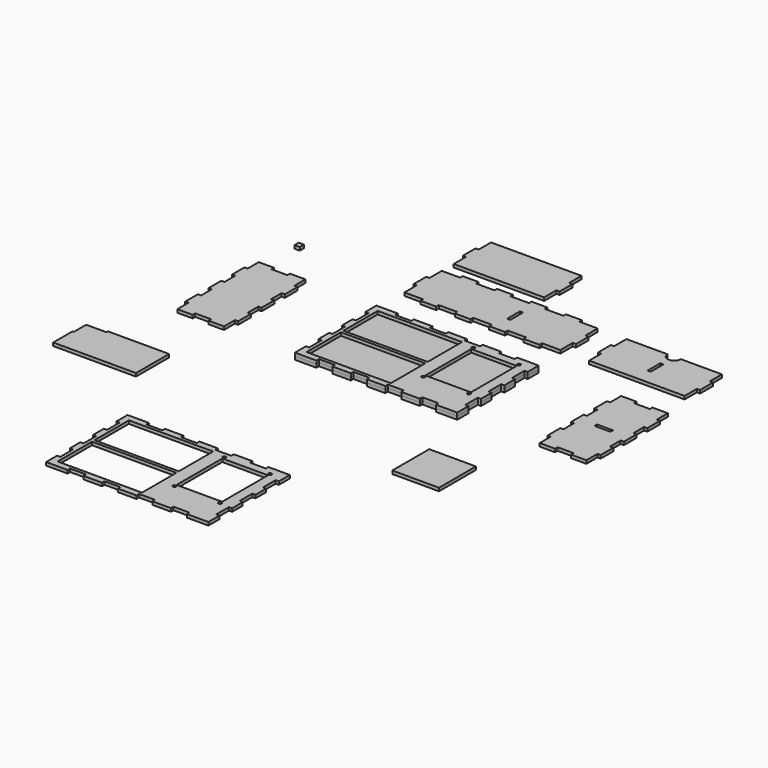
from build123d import *

# Parameters (mm, degrees)
F0_W     = 159
F0_H     = 81
F0_R     = 3
F0_W_2   = 86
F0_H_2   = 108
F1_DEPTH = 6
F0_W_3   = 6
F0_H_3   = 30
F0_W_4   = 30
F0_H_4   = 6
F0_W_5   = 10
F0_H_5   = 10
F0_W_6   = 88
F0_H_6   = 87
F3_DEPTH = 6
F0_W_7   = 155
F0_H_7   = 77
F5_DEPTH = 6


with BuildPart() as f1:
    # F0 (on Top) → F1 (new body)
    with BuildSketch(Plane.XY):
        Polygon((-86.2738461022, 84.8959320457), (-126.7738461022, 84.8959320457), (-126.7738461022, 58.8614838584), (-120.7738461022, 58.8614838584), (-120.7738461022, 28.930380233), (-126.7738461022, 28.930380233), (-126.7738461022, 20.930380233), (-126.7738461022, 19.8959320457), (-126.7738461022, 3.8959320457), (-120.7738461022, 3.8959320457), (-120.7738461022, -26.1040679543), (-126.7738461022, -26.1040679543), (-126.7738461022, -43.1385161416), (-126.7738461022, -51.1040679543), (-120.7738461022, -51.1040679543), (-120.7738461022, -81.1040679543), (-126.7738461022, -81.1040679543), (-126.7738461022, -107.1040679543), (-86.2738461022, -107.1040679543), (-86.2738461022, -101.1040679543), (-56.2738461022, -101.1040679543), (-56.2738461022, -107.1040679543), (-21.2738461021, -107.1040679543), (-21.2738461021, -101.1040679543), (8.7261538978, -101.1040679543), (8.7261538978, -107.1040679543), (43.7261538979, -107.1040679543), (43.7261538979, -101.1040679543), (73.7261538978, -101.1040679543), (73.7261538978, -107.1040679543), (108.7261538979, -107.1040679543), (108.7261538979, -101.1040679543), (138.7261538978, -101.1040679543), (138.7261538978, -107.1040679543), (144.4517241379, -107.1040679543), (179.2261538978, -107.1040679543), (179.2261538978, -81.069619767), (173.2261538978, -81.069619767), (173.2261538978, -51.1385161416), (179.2261538978, -51.1385161416), (179.2261538978, -43.1385161416), (179.2261538978, -26.1040679543), (173.2261538978, -26.1040679543), (173.2261538978, 3.8959320457), (179.2261538978, 3.8959320457), (179.2261538978, 28.8959320457), (173.2261538978, 28.8959320457), (173.2261538978, 58.8959320457), (179.2261538978, 58.8959320457), (179.2261538978, 84.8959320457), (169.8029463664, 84.8959320457), (138.5005836578, 84.8959320457), (138.5005836578, 78.8959320457), (108.5005836578, 78.8959320457), (108.5005836578, 84.8959320457), (104.8781364464, 84.8959320457), (73.5757737378, 84.8959320457), (73.5757737378, 78.8959320457), (43.5757737378, 78.8959320457), (43.5757737378, 84.8959320457), (39.9533265265, 84.8959320457), (8.6509638178, 84.8959320457), (8.6509638178, 78.8959320457), (-21.3490361822, 78.8959320457), (-21.3490361822, 84.8959320457), (-24.9714833935, 84.8959320457), (-56.2738461022, 84.8959320457), (-56.2738461022, 78.8959320457), (-86.2738461022, 78.8959320457), align=None)
        with Locations((-35.0482758621, -54.6040679543)):
            Rectangle(F0_W, F0_H, mode=Mode.SUBTRACT)
        with Locations((-35.2738461022, 32.3959320457)):
            Rectangle(F0_W, F0_H, mode=Mode.SUBTRACT)
        with Locations((68.7261538978, -49.1040679543)):
            Circle(F0_R, mode=Mode.SUBTRACT)
        with Locations((154.7261538978, -49.1040679543)):
            Circle(F0_R, mode=Mode.SUBTRACT)
        with Locations((68.7261538978, 68.8959320457)):
            Circle(F0_R, mode=Mode.SUBTRACT)
        with Locations((111.7261538978, 9.8959320457)):
            Rectangle(F0_W_2, F0_H_2, mode=Mode.SUBTRACT)
        with Locations((154.7261538978, 68.8959320457)):
            Circle(F0_R, mode=Mode.SUBTRACT)
    extrude(amount=F1_DEPTH)


with BuildPart() as f1b:
    # F0 (on Top) → F1, piece 2 (new body)
    with BuildSketch(Plane.XY):
        Polygon((-260.5471904278, 58.8614838584), (-260.5471904278, 84.8959320457), (-289.5471904278, 84.8959320457), (-289.5471904278, 78.8959320457), (-319.5471904278, 78.8959320457), (-319.5471904278, 84.8959320457), (-348.5471904278, 84.8959320457), (-348.5471904278, 58.8959320457), (-354.5471904278, 58.8959320457), (-354.5471904278, 28.8959320457), (-348.5471904278, 28.8959320457), (-348.5471904278, 3.9131561393), (-354.5471904278, 3.9131561393), (-354.5471904278, -26.0868438607), (-348.5471904278, -26.0868438607), (-348.5471904278, -51.069619767), (-354.5471904278, -51.069619767), (-354.5471904278, -81.069619767), (-348.5471904278, -81.069619767), (-348.5471904278, -107.1040679543), (-319.5471904278, -107.1040679543), (-319.5471904278, -101.1040679543), (-289.5471904278, -101.1040679543), (-289.5471904278, -107.1040679543), (-260.5471904278, -107.1040679543), (-260.5471904278, -81.1040679543), (-254.5471904278, -81.1040679543), (-254.5471904278, -51.1040679543), (-260.5471904278, -51.1040679543), (-260.5471904278, -26.121292048), (-254.5471904278, -26.121292048), (-254.5471904278, 3.878707952), (-260.5471904278, 3.878707952), (-260.5471904278, 28.8614838584), (-254.5471904278, 28.8614838584), (-254.5471904278, 58.8614838584), align=None)
    extrude(amount=F1_DEPTH)


with BuildPart() as f1c:
    # F0 (on Top) → F1, piece 3 (new body)
    with BuildSketch(Plane.XY):
        Polygon((-86.0482758621, 143.4788551768), (-86.0482758621, 137.4788551768), (-61.6482758621, 137.4788551768), (-61.5482758621, 137.4788551768), (-56.0482758621, 137.4788551768), (-56.0482758621, 143.4788551768), (-21.1234659421, 143.4788551768), (-21.1234659421, 137.4788551768), (4.9337449743, 137.4788551768), (8.8765340579, 137.4788551768), (8.8765340579, 143.4788551768), (43.8013439779, 143.4788551768), (43.8013439779, 137.4788551768), (73.8013439779, 137.4788551768), (73.8013439779, 143.4788551768), (108.7261538978, 143.4788551768), (108.7261538978, 137.4788551768), (138.7261538978, 137.4788551768), (138.7261538978, 143.4788551768), (173.2261538978, 143.4788551768), (173.2261538978, 172.4788551768), (173.2261538978, 202.4788551768), (173.2261538978, 231.4788551768), (138.5005836578, 231.4788551768), (138.5005836578, 237.4788551768), (114.1005836578, 237.4788551768), (114.0005836578, 237.4788551768), (108.5005836578, 237.4788551768), (108.5005836578, 231.4788551768), (73.5757737378, 231.4788551768), (73.5757737378, 237.4788551768), (47.5185628214, 237.4788551768), (43.5757737378, 237.4788551768), (43.5757737378, 231.4788551768), (8.6509638178, 231.4788551768), (8.6509638178, 237.4788551768), (-21.3490361822, 237.4788551768), (-21.3490361822, 231.4788551768), (-56.2738461022, 231.4788551768), (-56.2738461022, 237.4788551768), (-86.2738461022, 237.4788551768), (-86.2738461022, 231.4788551768), (-120.7738461021, 231.4788551768), (-120.7738461021, 202.4788551768), (-120.7738461021, 172.4788551768), (-120.7738461021, 143.4788551768), align=None)
        with Locations((52.6885588578, 187.4788551768)):
            Rectangle(F0_W_3, F0_H_3, mode=Mode.SUBTRACT)
        Polygon((-126.7738461022, 172.4788551768), (-120.7738461021, 172.4788551768), (-120.7738461021, 202.4788551768), (-126.7738461022, 202.4788551768), (-126.7738461022, 187.4788551768), align=None)
        Polygon((173.2261538978, 202.4788551768), (173.2261538978, 172.4788551768), (179.2261538978, 172.4788551768), (179.2261538978, 187.4788551768), (179.2261538978, 202.4788551768), align=None)
    extrude(amount=F1_DEPTH)


with BuildPart() as f1d:
    # F0 (on Top) → F1, piece 4 (new body)
    with BuildSketch(Plane.XY):
        with BuildLine():
            Line((304.9086773396, 231.4788551768), (227.4086773396, 231.4788551768))
            Line((227.4086773396, 231.4788551768), (227.4086773396, 202.4788551768))
            Line((227.4086773396, 202.4788551768), (227.4086773396, 172.4788551768))
            Line((227.4086773396, 172.4788551768), (227.4086773396, 143.4788551768))
            Line((227.4086773396, 143.4788551768), (407.4086773396, 143.4788551768))
            Line((407.4086773396, 143.4788551768), (407.4086773396, 172.4788551768))
            Line((407.4086773396, 172.4788551768), (407.4086773396, 202.4788551768))
            Line((407.4086773396, 202.4788551768), (407.4086773396, 231.4788551768))
            Line((407.4086773396, 231.4788551768), (329.9086773396, 231.4788551768))
            ThreePointArc((329.9086773396, 231.4788551768), (317.4086773396, 218.9788551768), (304.9086773396, 231.4788551768))
        make_face()
        with Locations((317.4086773396, 187.4788551768)):
            Rectangle(F0_W_3, F0_H_3, mode=Mode.SUBTRACT)
        Polygon((227.4086773396, 172.4788551768), (227.4086773396, 202.4788551768), (221.4086773396, 202.4788551768), (221.4086773396, 187.4788551768), (221.4086773396, 172.4788551768), align=None)
        Polygon((413.4086773396, 202.4788551768), (407.4086773396, 202.4788551768), (407.4086773396, 172.4788551768), (413.4086773396, 172.4788551768), (413.4086773396, 187.4788551768), align=None)
    extrude(amount=F1_DEPTH)


with BuildPart() as f1e:
    # F0 (on Top) → F1, piece 5 (new body)
    with BuildSketch(Plane.XY):
        Polygon((422.712177515, 58.8702730132), (422.712177515, 84.9047212005), (393.712177515, 84.9047212005), (393.712177515, 78.9047212005), (363.712177515, 78.9047212005), (363.712177515, 84.9047212005), (334.712177515, 84.9047212005), (334.712177515, 58.9047212005), (328.712177515, 58.9047212005), (328.712177515, 28.9047212005), (334.712177515, 28.9047212005), (334.712177515, 3.9219452941), (328.712177515, 3.9219452941), (328.712177515, -26.0780547059), (334.712177515, -26.0780547059), (334.712177515, -51.0608306122), (328.712177515, -51.0608306122), (328.712177515, -81.0608306122), (334.712177515, -81.0608306122), (334.712177515, -107.0952787995), (363.712177515, -107.0952787995), (363.712177515, -101.0952787995), (393.712177515, -101.0952787995), (393.712177515, -107.0952787995), (422.712177515, -107.0952787995), (422.712177515, -81.0952787995), (428.712177515, -81.0952787995), (428.712177515, -51.0952787995), (422.712177515, -51.0952787995), (422.712177515, -26.1125028932), (428.712177515, -26.1125028932), (428.712177515, 3.8874971068), (422.712177515, 3.8874971068), (422.712177515, 28.8702730132), (428.712177515, 28.8702730132), (428.712177515, 58.8702730132), align=None)
        with Locations((378.712177515, -11.0952787995)):
            Rectangle(F0_W_4, F0_H_4, mode=Mode.SUBTRACT)
    extrude(amount=F1_DEPTH)


with BuildPart() as f1f:
    # F0 (on Top) → F1, piece 6 (new body)
    with BuildSketch(Plane.XY):
        Polygon((-120.7738461022, 288.6103847027), (-120.7738461022, 259.6103847027), (49.6885588578, 259.6103847027), (49.6885588578, 288.6103847027), (55.6885588578, 288.6103847027), (55.6885588578, 318.6103847027), (49.6885588578, 318.6103847027), (49.6885588578, 347.6103847027), (-120.7738461022, 347.6103847027), (-120.7738461022, 318.6103847027), (-126.7738461022, 318.6103847027), (-126.7738461022, 288.6103847027), align=None)
    extrude(amount=F1_DEPTH)


with BuildPart() as f1g:
    # F0 (on Top) → F1, piece 7 (new body)
    with BuildSketch(Plane.XY):
        with Locations((-336.3809537888, 165.053178668)):
            Rectangle(F0_W_5, F0_H_5)
    extrude(amount=F1_DEPTH)


with BuildPart() as f1h:
    # F0 (on Top) → F1, piece 8 (new body)
    with BuildSketch(Plane.XY):
        Polygon((-154.4224202906, -416.4296309539), (-194.9224202906, -416.4296309539), (-194.9224202906, -442.4640791412), (-188.9224202906, -442.4640791412), (-188.9224202906, -472.3951827666), (-194.9224202906, -472.3951827666), (-194.9224202906, -480.3951827666), (-194.9224202906, -481.4296309539), (-194.9224202906, -497.4296309539), (-188.9224202906, -497.4296309539), (-188.9224202906, -527.4296309539), (-194.9224202906, -527.4296309539), (-194.9224202906, -544.4640791412), (-194.9224202906, -552.4296309539), (-188.9224202906, -552.4296309539), (-188.9224202906, -582.4296309539), (-194.9224202906, -582.4296309539), (-194.9224202906, -608.4296309539), (-154.4224202906, -608.4296309539), (-154.4224202906, -602.4296309539), (-124.4224202906, -602.4296309539), (-124.4224202906, -608.4296309539), (-89.4224202906, -608.4296309539), (-89.4224202906, -602.4296309539), (-59.4224202906, -602.4296309539), (-59.4224202906, -608.4296309539), (-24.4224202906, -608.4296309539), (-24.4224202906, -602.4296309539), (5.5775797094, -602.4296309539), (5.5775797094, -608.4296309539), (40.5775797094, -608.4296309539), (40.5775797094, -602.4296309539), (70.5775797094, -602.4296309539), (70.5775797094, -608.4296309539), (76.3031499494, -608.4296309539), (111.0775797094, -608.4296309539), (111.0775797094, -582.3951827666), (105.0775797094, -582.3951827666), (105.0775797094, -552.4640791412), (111.0775797094, -552.4640791412), (111.0775797094, -544.4640791412), (111.0775797094, -527.4296309539), (105.0775797094, -527.4296309539), (105.0775797094, -497.4296309539), (111.0775797094, -497.4296309539), (111.0775797094, -472.4296309539), (105.0775797094, -472.4296309539), (105.0775797094, -442.4296309539), (111.0775797094, -442.4296309539), (111.0775797094, -416.4296309539), (101.6543721779, -416.4296309539), (70.3520094693, -416.4296309539), (70.3520094693, -422.4296309539), (40.3520094693, -422.4296309539), (40.3520094693, -416.4296309539), (36.729562258, -416.4296309539), (5.4271995493, -416.4296309539), (5.4271995493, -422.4296309539), (-24.5728004507, -422.4296309539), (-24.5728004507, -416.4296309539), (-28.195247662, -416.4296309539), (-59.4976103707, -416.4296309539), (-59.4976103707, -422.4296309539), (-89.4976103707, -422.4296309539), (-89.4976103707, -416.4296309539), (-93.120057582, -416.4296309539), (-124.4224202906, -416.4296309539), (-124.4224202906, -422.4296309539), (-154.4224202906, -422.4296309539), align=None)
        with Locations((-103.1968500506, -555.9296309539)):
            Rectangle(F0_W, F0_H, mode=Mode.SUBTRACT)
        with Locations((0.5775797094, -550.4296309539)):
            Circle(F0_R, mode=Mode.SUBTRACT)
        with Locations((-103.4224202906, -468.9296309539)):
            Rectangle(F0_W, F0_H, mode=Mode.SUBTRACT)
        with Locations((0.5775797094, -432.4296309539)):
            Circle(F0_R, mode=Mode.SUBTRACT)
        with Locations((86.5775797094, -550.4296309539)):
            Circle(F0_R, mode=Mode.SUBTRACT)
        with Locations((43.5775797094, -491.4296309539)):
            Rectangle(F0_W_2, F0_H_2, mode=Mode.SUBTRACT)
        with Locations((86.5775797094, -432.4296309539)):
            Circle(F0_R, mode=Mode.SUBTRACT)
    extrude(amount=F1_DEPTH)


with BuildPart() as f1i:
    # F0 (on Top) → F1, piece 9 (new body)
    with BuildSketch(Plane.XY):
        Polygon((-268.7820079327, -304.2154014111), (-268.7820079327, -226.2154014111), (-384.2820079327, -226.2154014111), (-384.2820079327, -229.7154014111), (-422.2820079327, -229.7154014111), (-422.2820079327, -258.7154014111), (-424.7820079327, -258.7154014111), (-424.7820079327, -304.2154014111), align=None)
    extrude(amount=F1_DEPTH)


with BuildPart() as f1j:
    # F0 (on Top) → F1, piece 10 (new body)
    with BuildSketch(Plane.XY):
        with Locations((263.9660986662, -267.5547959805)):
            Rectangle(F0_W_6, F0_H_6)
    extrude(amount=F1_DEPTH)


with BuildPart() as f3:
    # F0 (on Top) → F3 (new body)
    with BuildSketch(Plane.XY):
        Polygon((-86.2738461022, 84.8959320457), (-126.7738461022, 84.8959320457), (-126.7738461022, 58.8614838584), (-120.7738461022, 58.8614838584), (-120.7738461022, 28.930380233), (-126.7738461022, 28.930380233), (-126.7738461022, 20.930380233), (-126.7738461022, 19.8959320457), (-126.7738461022, 3.8959320457), (-120.7738461022, 3.8959320457), (-120.7738461022, -26.1040679543), (-126.7738461022, -26.1040679543), (-126.7738461022, -43.1385161416), (-126.7738461022, -51.1040679543), (-120.7738461022, -51.1040679543), (-120.7738461022, -81.1040679543), (-126.7738461022, -81.1040679543), (-126.7738461022, -107.1040679543), (-86.2738461022, -107.1040679543), (-86.2738461022, -101.1040679543), (-56.2738461022, -101.1040679543), (-56.2738461022, -107.1040679543), (-21.2738461021, -107.1040679543), (-21.2738461021, -101.1040679543), (8.7261538978, -101.1040679543), (8.7261538978, -107.1040679543), (43.7261538979, -107.1040679543), (43.7261538979, -101.1040679543), (73.7261538978, -101.1040679543), (73.7261538978, -107.1040679543), (108.7261538979, -107.1040679543), (108.7261538979, -101.1040679543), (138.7261538978, -101.1040679543), (138.7261538978, -107.1040679543), (144.4517241379, -107.1040679543), (179.2261538978, -107.1040679543), (179.2261538978, -81.069619767), (173.2261538978, -81.069619767), (173.2261538978, -51.1385161416), (179.2261538978, -51.1385161416), (179.2261538978, -43.1385161416), (179.2261538978, -26.1040679543), (173.2261538978, -26.1040679543), (173.2261538978, 3.8959320457), (179.2261538978, 3.8959320457), (179.2261538978, 28.8959320457), (173.2261538978, 28.8959320457), (173.2261538978, 58.8959320457), (179.2261538978, 58.8959320457), (179.2261538978, 84.8959320457), (169.8029463664, 84.8959320457), (138.5005836578, 84.8959320457), (138.5005836578, 78.8959320457), (108.5005836578, 78.8959320457), (108.5005836578, 84.8959320457), (104.8781364464, 84.8959320457), (73.5757737378, 84.8959320457), (73.5757737378, 78.8959320457), (43.5757737378, 78.8959320457), (43.5757737378, 84.8959320457), (39.9533265265, 84.8959320457), (8.6509638178, 84.8959320457), (8.6509638178, 78.8959320457), (-21.3490361822, 78.8959320457), (-21.3490361822, 84.8959320457), (-24.9714833935, 84.8959320457), (-56.2738461022, 84.8959320457), (-56.2738461022, 78.8959320457), (-86.2738461022, 78.8959320457), align=None)
        with Locations((-35.0482758621, -54.6040679543)):
            Rectangle(F0_W, F0_H, mode=Mode.SUBTRACT)
        with Locations((-35.2738461022, 32.3959320457)):
            Rectangle(F0_W, F0_H, mode=Mode.SUBTRACT)
        with Locations((68.7261538978, -49.1040679543)):
            Circle(F0_R, mode=Mode.SUBTRACT)
        with Locations((154.7261538978, -49.1040679543)):
            Circle(F0_R, mode=Mode.SUBTRACT)
        with Locations((68.7261538978, 68.8959320457)):
            Circle(F0_R, mode=Mode.SUBTRACT)
        with Locations((111.7261538978, 9.8959320457)):
            Rectangle(F0_W_2, F0_H_2, mode=Mode.SUBTRACT)
        with Locations((154.7261538978, 68.8959320457)):
            Circle(F0_R, mode=Mode.SUBTRACT)
    extrude(amount=F3_DEPTH)


with BuildPart() as f3b:
    # F0 (on Top) → F3, piece 2 (new body)
    with BuildSketch(Plane.XY):
        Polygon((-260.5471904278, 58.8614838584), (-260.5471904278, 84.8959320457), (-289.5471904278, 84.8959320457), (-289.5471904278, 78.8959320457), (-319.5471904278, 78.8959320457), (-319.5471904278, 84.8959320457), (-348.5471904278, 84.8959320457), (-348.5471904278, 58.8959320457), (-354.5471904278, 58.8959320457), (-354.5471904278, 28.8959320457), (-348.5471904278, 28.8959320457), (-348.5471904278, 3.9131561393), (-354.5471904278, 3.9131561393), (-354.5471904278, -26.0868438607), (-348.5471904278, -26.0868438607), (-348.5471904278, -51.069619767), (-354.5471904278, -51.069619767), (-354.5471904278, -81.069619767), (-348.5471904278, -81.069619767), (-348.5471904278, -107.1040679543), (-319.5471904278, -107.1040679543), (-319.5471904278, -101.1040679543), (-289.5471904278, -101.1040679543), (-289.5471904278, -107.1040679543), (-260.5471904278, -107.1040679543), (-260.5471904278, -81.1040679543), (-254.5471904278, -81.1040679543), (-254.5471904278, -51.1040679543), (-260.5471904278, -51.1040679543), (-260.5471904278, -26.121292048), (-254.5471904278, -26.121292048), (-254.5471904278, 3.878707952), (-260.5471904278, 3.878707952), (-260.5471904278, 28.8614838584), (-254.5471904278, 28.8614838584), (-254.5471904278, 58.8614838584), align=None)
    extrude(amount=F3_DEPTH)


with BuildPart() as f3c:
    # F0 (on Top) → F3, piece 3 (new body)
    with BuildSketch(Plane.XY):
        Polygon((-86.0482758621, 143.4788551768), (-86.0482758621, 137.4788551768), (-61.6482758621, 137.4788551768), (-61.5482758621, 137.4788551768), (-56.0482758621, 137.4788551768), (-56.0482758621, 143.4788551768), (-21.1234659421, 143.4788551768), (-21.1234659421, 137.4788551768), (4.9337449743, 137.4788551768), (8.8765340579, 137.4788551768), (8.8765340579, 143.4788551768), (43.8013439779, 143.4788551768), (43.8013439779, 137.4788551768), (73.8013439779, 137.4788551768), (73.8013439779, 143.4788551768), (108.7261538978, 143.4788551768), (108.7261538978, 137.4788551768), (138.7261538978, 137.4788551768), (138.7261538978, 143.4788551768), (173.2261538978, 143.4788551768), (173.2261538978, 172.4788551768), (173.2261538978, 202.4788551768), (173.2261538978, 231.4788551768), (138.5005836578, 231.4788551768), (138.5005836578, 237.4788551768), (114.1005836578, 237.4788551768), (114.0005836578, 237.4788551768), (108.5005836578, 237.4788551768), (108.5005836578, 231.4788551768), (73.5757737378, 231.4788551768), (73.5757737378, 237.4788551768), (47.5185628214, 237.4788551768), (43.5757737378, 237.4788551768), (43.5757737378, 231.4788551768), (8.6509638178, 231.4788551768), (8.6509638178, 237.4788551768), (-21.3490361822, 237.4788551768), (-21.3490361822, 231.4788551768), (-56.2738461022, 231.4788551768), (-56.2738461022, 237.4788551768), (-86.2738461022, 237.4788551768), (-86.2738461022, 231.4788551768), (-120.7738461021, 231.4788551768), (-120.7738461021, 202.4788551768), (-120.7738461021, 172.4788551768), (-120.7738461021, 143.4788551768), align=None)
        with Locations((52.6885588578, 187.4788551768)):
            Rectangle(F0_W_3, F0_H_3, mode=Mode.SUBTRACT)
        Polygon((-126.7738461022, 172.4788551768), (-120.7738461021, 172.4788551768), (-120.7738461021, 202.4788551768), (-126.7738461022, 202.4788551768), (-126.7738461022, 187.4788551768), align=None)
        Polygon((173.2261538978, 202.4788551768), (173.2261538978, 172.4788551768), (179.2261538978, 172.4788551768), (179.2261538978, 187.4788551768), (179.2261538978, 202.4788551768), align=None)
    extrude(amount=F3_DEPTH)


with BuildPart() as f3d:
    # F0 (on Top) → F3, piece 4 (new body)
    with BuildSketch(Plane.XY):
        with BuildLine():
            Line((304.9086773396, 231.4788551768), (227.4086773396, 231.4788551768))
            Line((227.4086773396, 231.4788551768), (227.4086773396, 202.4788551768))
            Line((227.4086773396, 202.4788551768), (227.4086773396, 172.4788551768))
            Line((227.4086773396, 172.4788551768), (227.4086773396, 143.4788551768))
            Line((227.4086773396, 143.4788551768), (407.4086773396, 143.4788551768))
            Line((407.4086773396, 143.4788551768), (407.4086773396, 172.4788551768))
            Line((407.4086773396, 172.4788551768), (407.4086773396, 202.4788551768))
            Line((407.4086773396, 202.4788551768), (407.4086773396, 231.4788551768))
            Line((407.4086773396, 231.4788551768), (329.9086773396, 231.4788551768))
            ThreePointArc((329.9086773396, 231.4788551768), (317.4086773396, 218.9788551768), (304.9086773396, 231.4788551768))
        make_face()
        with Locations((317.4086773396, 187.4788551768)):
            Rectangle(F0_W_3, F0_H_3, mode=Mode.SUBTRACT)
        Polygon((227.4086773396, 172.4788551768), (227.4086773396, 202.4788551768), (221.4086773396, 202.4788551768), (221.4086773396, 187.4788551768), (221.4086773396, 172.4788551768), align=None)
        Polygon((413.4086773396, 202.4788551768), (407.4086773396, 202.4788551768), (407.4086773396, 172.4788551768), (413.4086773396, 172.4788551768), (413.4086773396, 187.4788551768), align=None)
    extrude(amount=F3_DEPTH)


with BuildPart() as f3e:
    # F0 (on Top) → F3, piece 5 (new body)
    with BuildSketch(Plane.XY):
        Polygon((422.712177515, 58.8702730132), (422.712177515, 84.9047212005), (393.712177515, 84.9047212005), (393.712177515, 78.9047212005), (363.712177515, 78.9047212005), (363.712177515, 84.9047212005), (334.712177515, 84.9047212005), (334.712177515, 58.9047212005), (328.712177515, 58.9047212005), (328.712177515, 28.9047212005), (334.712177515, 28.9047212005), (334.712177515, 3.9219452941), (328.712177515, 3.9219452941), (328.712177515, -26.0780547059), (334.712177515, -26.0780547059), (334.712177515, -51.0608306122), (328.712177515, -51.0608306122), (328.712177515, -81.0608306122), (334.712177515, -81.0608306122), (334.712177515, -107.0952787995), (363.712177515, -107.0952787995), (363.712177515, -101.0952787995), (393.712177515, -101.0952787995), (393.712177515, -107.0952787995), (422.712177515, -107.0952787995), (422.712177515, -81.0952787995), (428.712177515, -81.0952787995), (428.712177515, -51.0952787995), (422.712177515, -51.0952787995), (422.712177515, -26.1125028932), (428.712177515, -26.1125028932), (428.712177515, 3.8874971068), (422.712177515, 3.8874971068), (422.712177515, 28.8702730132), (428.712177515, 28.8702730132), (428.712177515, 58.8702730132), align=None)
        with Locations((378.712177515, -11.0952787995)):
            Rectangle(F0_W_4, F0_H_4, mode=Mode.SUBTRACT)
    extrude(amount=F3_DEPTH)


with BuildPart() as f3f:
    # F0 (on Top) → F3, piece 6 (new body)
    with BuildSketch(Plane.XY):
        Polygon((-120.7738461022, 288.6103847027), (-120.7738461022, 259.6103847027), (49.6885588578, 259.6103847027), (49.6885588578, 288.6103847027), (55.6885588578, 288.6103847027), (55.6885588578, 318.6103847027), (49.6885588578, 318.6103847027), (49.6885588578, 347.6103847027), (-120.7738461022, 347.6103847027), (-120.7738461022, 318.6103847027), (-126.7738461022, 318.6103847027), (-126.7738461022, 288.6103847027), align=None)
    extrude(amount=F3_DEPTH)


with BuildPart() as f3g:
    # F0 (on Top) → F3, piece 7 (new body)
    with BuildSketch(Plane.XY):
        with Locations((-336.3809537888, 165.053178668)):
            Rectangle(F0_W_5, F0_H_5)
    extrude(amount=F3_DEPTH)


with BuildPart() as f3h:
    # F0 (on Top) → F3, piece 8 (new body)
    with BuildSketch(Plane.XY):
        Polygon((-154.4224202906, -416.4296309539), (-194.9224202906, -416.4296309539), (-194.9224202906, -442.4640791412), (-188.9224202906, -442.4640791412), (-188.9224202906, -472.3951827666), (-194.9224202906, -472.3951827666), (-194.9224202906, -480.3951827666), (-194.9224202906, -481.4296309539), (-194.9224202906, -497.4296309539), (-188.9224202906, -497.4296309539), (-188.9224202906, -527.4296309539), (-194.9224202906, -527.4296309539), (-194.9224202906, -544.4640791412), (-194.9224202906, -552.4296309539), (-188.9224202906, -552.4296309539), (-188.9224202906, -582.4296309539), (-194.9224202906, -582.4296309539), (-194.9224202906, -608.4296309539), (-154.4224202906, -608.4296309539), (-154.4224202906, -602.4296309539), (-124.4224202906, -602.4296309539), (-124.4224202906, -608.4296309539), (-89.4224202906, -608.4296309539), (-89.4224202906, -602.4296309539), (-59.4224202906, -602.4296309539), (-59.4224202906, -608.4296309539), (-24.4224202906, -608.4296309539), (-24.4224202906, -602.4296309539), (5.5775797094, -602.4296309539), (5.5775797094, -608.4296309539), (40.5775797094, -608.4296309539), (40.5775797094, -602.4296309539), (70.5775797094, -602.4296309539), (70.5775797094, -608.4296309539), (76.3031499494, -608.4296309539), (111.0775797094, -608.4296309539), (111.0775797094, -582.3951827666), (105.0775797094, -582.3951827666), (105.0775797094, -552.4640791412), (111.0775797094, -552.4640791412), (111.0775797094, -544.4640791412), (111.0775797094, -527.4296309539), (105.0775797094, -527.4296309539), (105.0775797094, -497.4296309539), (111.0775797094, -497.4296309539), (111.0775797094, -472.4296309539), (105.0775797094, -472.4296309539), (105.0775797094, -442.4296309539), (111.0775797094, -442.4296309539), (111.0775797094, -416.4296309539), (101.6543721779, -416.4296309539), (70.3520094693, -416.4296309539), (70.3520094693, -422.4296309539), (40.3520094693, -422.4296309539), (40.3520094693, -416.4296309539), (36.729562258, -416.4296309539), (5.4271995493, -416.4296309539), (5.4271995493, -422.4296309539), (-24.5728004507, -422.4296309539), (-24.5728004507, -416.4296309539), (-28.195247662, -416.4296309539), (-59.4976103707, -416.4296309539), (-59.4976103707, -422.4296309539), (-89.4976103707, -422.4296309539), (-89.4976103707, -416.4296309539), (-93.120057582, -416.4296309539), (-124.4224202906, -416.4296309539), (-124.4224202906, -422.4296309539), (-154.4224202906, -422.4296309539), align=None)
        with Locations((-103.1968500506, -555.9296309539)):
            Rectangle(F0_W, F0_H, mode=Mode.SUBTRACT)
        with Locations((0.5775797094, -550.4296309539)):
            Circle(F0_R, mode=Mode.SUBTRACT)
        with Locations((-103.4224202906, -468.9296309539)):
            Rectangle(F0_W, F0_H, mode=Mode.SUBTRACT)
        with Locations((0.5775797094, -432.4296309539)):
            Circle(F0_R, mode=Mode.SUBTRACT)
        with Locations((86.5775797094, -550.4296309539)):
            Circle(F0_R, mode=Mode.SUBTRACT)
        with Locations((43.5775797094, -491.4296309539)):
            Rectangle(F0_W_2, F0_H_2, mode=Mode.SUBTRACT)
        with Locations((86.5775797094, -432.4296309539)):
            Circle(F0_R, mode=Mode.SUBTRACT)
    extrude(amount=F3_DEPTH)


with BuildPart() as f3i:
    # F0 (on Top) → F3, piece 9 (new body)
    with BuildSketch(Plane.XY):
        Polygon((-268.7820079327, -304.2154014111), (-268.7820079327, -226.2154014111), (-384.2820079327, -226.2154014111), (-384.2820079327, -229.7154014111), (-422.2820079327, -229.7154014111), (-422.2820079327, -258.7154014111), (-424.7820079327, -258.7154014111), (-424.7820079327, -304.2154014111), align=None)
    extrude(amount=F3_DEPTH)


with BuildPart() as f3j:
    # F0 (on Top) → F3, piece 10 (new body)
    with BuildSketch(Plane.XY):
        with Locations((263.9660986662, -267.5547959805)):
            Rectangle(F0_W_6, F0_H_6)
    extrude(amount=F3_DEPTH)


with BuildPart() as f5:
    # F0 (on Top) → F5 (new body)
    with BuildSketch(Plane.XY):
        Polygon((-86.2738461022, 84.8959320457), (-126.7738461022, 84.8959320457), (-126.7738461022, 58.8614838584), (-120.7738461022, 58.8614838584), (-120.7738461022, 28.930380233), (-126.7738461022, 28.930380233), (-126.7738461022, 20.930380233), (-126.7738461022, 19.8959320457), (-126.7738461022, 3.8959320457), (-120.7738461022, 3.8959320457), (-120.7738461022, -26.1040679543), (-126.7738461022, -26.1040679543), (-126.7738461022, -43.1385161416), (-126.7738461022, -51.1040679543), (-120.7738461022, -51.1040679543), (-120.7738461022, -81.1040679543), (-126.7738461022, -81.1040679543), (-126.7738461022, -107.1040679543), (-86.2738461022, -107.1040679543), (-86.2738461022, -101.1040679543), (-56.2738461022, -101.1040679543), (-56.2738461022, -107.1040679543), (-21.2738461021, -107.1040679543), (-21.2738461021, -101.1040679543), (8.7261538978, -101.1040679543), (8.7261538978, -107.1040679543), (43.7261538979, -107.1040679543), (43.7261538979, -101.1040679543), (73.7261538978, -101.1040679543), (73.7261538978, -107.1040679543), (108.7261538979, -107.1040679543), (108.7261538979, -101.1040679543), (138.7261538978, -101.1040679543), (138.7261538978, -107.1040679543), (144.4517241379, -107.1040679543), (179.2261538978, -107.1040679543), (179.2261538978, -81.069619767), (173.2261538978, -81.069619767), (173.2261538978, -51.1385161416), (179.2261538978, -51.1385161416), (179.2261538978, -43.1385161416), (179.2261538978, -26.1040679543), (173.2261538978, -26.1040679543), (173.2261538978, 3.8959320457), (179.2261538978, 3.8959320457), (179.2261538978, 28.8959320457), (173.2261538978, 28.8959320457), (173.2261538978, 58.8959320457), (179.2261538978, 58.8959320457), (179.2261538978, 84.8959320457), (169.8029463664, 84.8959320457), (138.5005836578, 84.8959320457), (138.5005836578, 78.8959320457), (108.5005836578, 78.8959320457), (108.5005836578, 84.8959320457), (104.8781364464, 84.8959320457), (73.5757737378, 84.8959320457), (73.5757737378, 78.8959320457), (43.5757737378, 78.8959320457), (43.5757737378, 84.8959320457), (39.9533265265, 84.8959320457), (8.6509638178, 84.8959320457), (8.6509638178, 78.8959320457), (-21.3490361822, 78.8959320457), (-21.3490361822, 84.8959320457), (-24.9714833935, 84.8959320457), (-56.2738461022, 84.8959320457), (-56.2738461022, 78.8959320457), (-86.2738461022, 78.8959320457), align=None)
        with Locations((-35.0482758621, -54.6040679543)):
            Rectangle(F0_W, F0_H, mode=Mode.SUBTRACT)
        with Locations((-35.2738461022, 32.3959320457)):
            Rectangle(F0_W, F0_H, mode=Mode.SUBTRACT)
        with Locations((68.7261538978, -49.1040679543)):
            Circle(F0_R, mode=Mode.SUBTRACT)
        with Locations((154.7261538978, -49.1040679543)):
            Circle(F0_R, mode=Mode.SUBTRACT)
        with Locations((68.7261538978, 68.8959320457)):
            Circle(F0_R, mode=Mode.SUBTRACT)
        with Locations((111.7261538978, 9.8959320457)):
            Rectangle(F0_W_2, F0_H_2, mode=Mode.SUBTRACT)
        with Locations((154.7261538978, 68.8959320457)):
            Circle(F0_R, mode=Mode.SUBTRACT)
        with Locations((-35.0482758621, -54.6040679543)):
            Rectangle(F0_W, F0_H)
        with Locations((-35.0482758621, -54.6040679543)):
            Rectangle(F0_W_7, F0_H_7, mode=Mode.SUBTRACT)
        with Locations((-35.0482758621, -54.6040679543)):
            Rectangle(F0_W_7, F0_H_7)
        with Locations((-35.2738461022, 32.3959320457)):
            Rectangle(F0_W, F0_H)
        with Locations((-35.2738461022, 32.3959320457)):
            Rectangle(F0_W_7, F0_H_7, mode=Mode.SUBTRACT)
        with Locations((-35.2738461022, 32.3959320457)):
            Rectangle(F0_W_7, F0_H_7)
        with Locations((111.7261538978, 9.8959320457)):
            Rectangle(F0_W_2, F0_H_2)
        with Locations((68.7261538978, 68.8959320457)):
            Circle(F0_R)
        with Locations((68.7261538978, -49.1040679543)):
            Circle(F0_R)
        with Locations((154.7261538978, -49.1040679543)):
            Circle(F0_R)
        with Locations((154.7261538978, 68.8959320457)):
            Circle(F0_R)
    extrude(amount=-F5_DEPTH)


solid = Compound([f1.part, f1b.part, f1c.part, f1d.part, f1e.part, f1f.part, f1g.part, f1h.part, f1i.part, f1j.part, f3.part, f3b.part, f3c.part, f3d.part, f3e.part, f3f.part, f3g.part, f3h.part, f3i.part, f3j.part, f5.part])
